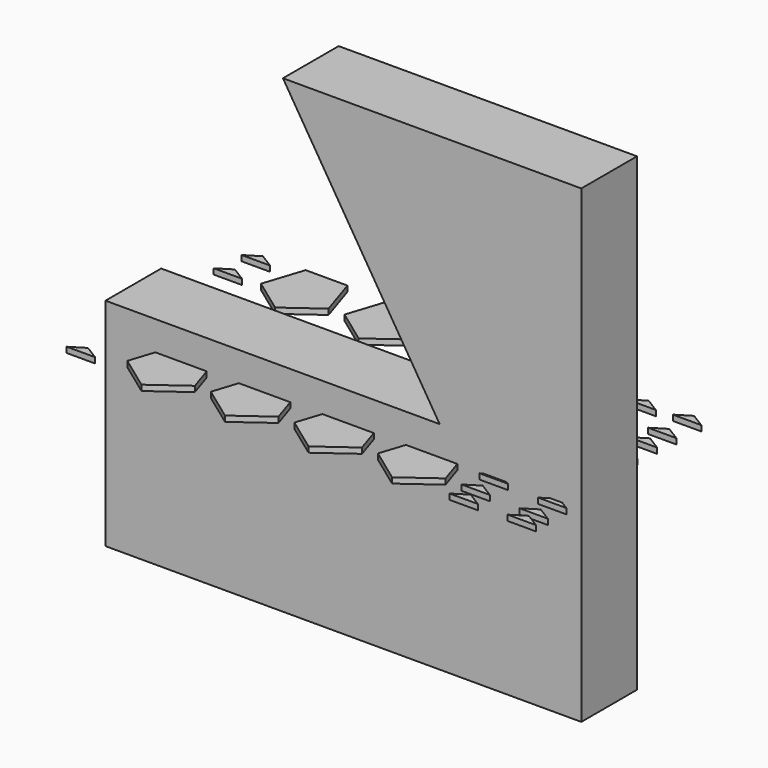
from build123d import *

# Parameters (mm, degrees)
F1_DEPTH = 2
F3_DEPTH = 25


with BuildPart() as f1:
    # F0 (on Top) → F1 (new body)
    with BuildSketch(Plane.XY):
        Polygon((-82.137629, 39.428669), (-87.241395, 36.274057), (-77.033864, 36.274057), align=None)
        Polygon((-52.5, 40.322864), (-67.5, 40.322864), (-72.135255, 26.057017), (-60, 17.240238), (-47.864745, 26.057017), align=None)
        Polygon((-22.5, 40.322864), (-37.5, 40.322864), (-42.135255, 26.057017), (-30, 17.240238), (-17.864745, 26.057017), align=None)
        Polygon((7.5, 40.322864), (-7.5, 40.322864), (-12.135255, 26.057017), (0, 17.240238), (12.135255, 26.057017), align=None)
        Polygon((37.5, 40.322864), (22.5, 40.322864), (17.864745, 26.057017), (30, 17.240238), (42.135255, 26.057017), align=None)
        Polygon((37.5, 10.322864), (22.5, 10.322864), (17.864745, -3.942983), (30, -12.759762), (42.135255, -3.942983), align=None)
        Polygon((7.5, 10.322864), (-7.5, 10.322864), (-12.135255, -3.942983), (0, -12.759762), (12.135255, -3.942983), align=None)
        Polygon((-22.5, 10.322864), (-37.5, 10.322864), (-42.135255, -3.942983), (-30, -12.759762), (-17.864745, -3.942983), align=None)
        Polygon((-52.5, 10.322864), (-67.5, 10.322864), (-72.135255, -3.942983), (-60, -12.759762), (-47.864745, -3.942983), align=None)
        Polygon((-52.5, -19.677136), (-67.5, -19.677136), (-72.135255, -33.942983), (-60, -42.759762), (-47.864745, -33.942983), align=None)
        Polygon((-22.5, -19.677136), (-37.5, -19.677136), (-42.135255, -33.942983), (-30, -42.759762), (-17.864745, -33.942983), align=None)
        Polygon((7.5, -19.677136), (-7.5, -19.677136), (-12.135255, -33.942983), (0, -42.759762), (12.135255, -33.942983), align=None)
        Polygon((37.5, -19.677136), (22.5, -19.677136), (17.864745, -33.942983), (30, -42.759762), (42.135255, -33.942983), align=None)
        Polygon((-83.255939, 28.245577), (-88.359705, 25.090965), (-78.152173, 25.090965), align=None)
        Polygon((-84.853522, 10.831906), (-89.957288, 7.677294), (-79.749757, 7.677294), align=None)
        Polygon((-85.492559, -3.386596), (-90.596325, -6.541207), (-80.388793, -6.541207), align=None)
        Polygon((-85.492559, -15.687996), (-90.596325, -18.842607), (-80.388793, -18.842607), align=None)
        Polygon((-85.652322, -34.699251), (-90.756087, -37.853863), (-80.548556, -37.853863), align=None)
        Polygon((74.585393, -37.095622), (69.481627, -40.250234), (79.689159, -40.250234), align=None)
        Polygon((53.816795, -37.255378), (48.71303, -40.409989), (58.920561, -40.409989), align=None)
        Polygon((53.018, -30.865041), (47.914234, -34.019652), (58.121766, -34.019652), align=None)
        Polygon((74.745148, -31.98335), (69.641383, -35.137962), (79.848914, -35.137962), align=None)
        Polygon((74.745148, -23.675912), (69.641383, -26.830524), (79.848914, -26.830524), align=None)
        Polygon((52.698486, -22.397845), (47.59472, -25.552457), (57.802251, -25.552457), align=None)
        Polygon((54.136313, -16.007506), (49.032548, -19.162118), (59.240079, -19.162118), align=None)
        Polygon((74.585393, -17.764851), (69.481627, -20.919462), (79.689159, -20.919462), align=None)
        Polygon((54.935101, -10.096444), (49.831336, -13.251055), (60.038867, -13.251055), align=None)
        Polygon((74.10612, -10.256203), (69.002354, -13.410815), (79.209885, -13.410815), align=None)
        Polygon((73.626839, -2.587798), (68.523073, -5.742409), (78.730604, -5.742409), align=None)
        Polygon((55.893652, -1.948764), (50.789886, -5.103376), (60.997418, -5.103376), align=None)
        Polygon((53.976554, 5.719641), (48.872789, 2.56503), (59.08032, 2.56503), align=None)
        Polygon((73.467083, 4.281815), (68.363317, 1.127203), (78.570849, 1.127203), align=None)
        Polygon((71.709745, 12.109978), (66.605979, 8.955366), (76.81351, 8.955366), align=None)
        Polygon((53.816795, 12.589253), (48.71303, 9.434642), (58.920561, 9.434642), align=None)
        Polygon((55.414379, 21.216211), (50.310613, 18.061599), (60.518144, 18.061599), align=None)
        Polygon((71.709745, 20.896693), (66.605979, 17.742081), (76.81351, 17.742081), align=None)
        Polygon((72.348773, 28.724856), (67.245008, 25.570244), (77.452539, 25.570244), align=None)
        Polygon((56.372929, 29.044372), (51.269164, 25.88976), (61.476695, 25.88976), align=None)
        Polygon((72.828047, 39.268914), (67.724281, 36.114302), (77.931813, 36.114302), align=None)
        Polygon((57.124982, 38.504421), (52.021216, 35.349809), (62.228748, 35.349809), align=None)
    extrude(amount=F1_DEPTH)


with BuildPart() as f3:
    # F2 (on Front) → F3 (new body)
    with BuildSketch(Plane.XZ):
        Polygon((32.875783, 12.520379), (-87.124217, 12.520379), (-87.124217, -65.088317), (83.745341, -65.088317), (83.745341, 103.55888), (-23.394651, 103.55888), align=None)
    extrude(amount=F3_DEPTH)


solid = Compound([f1.part, f3.part])
